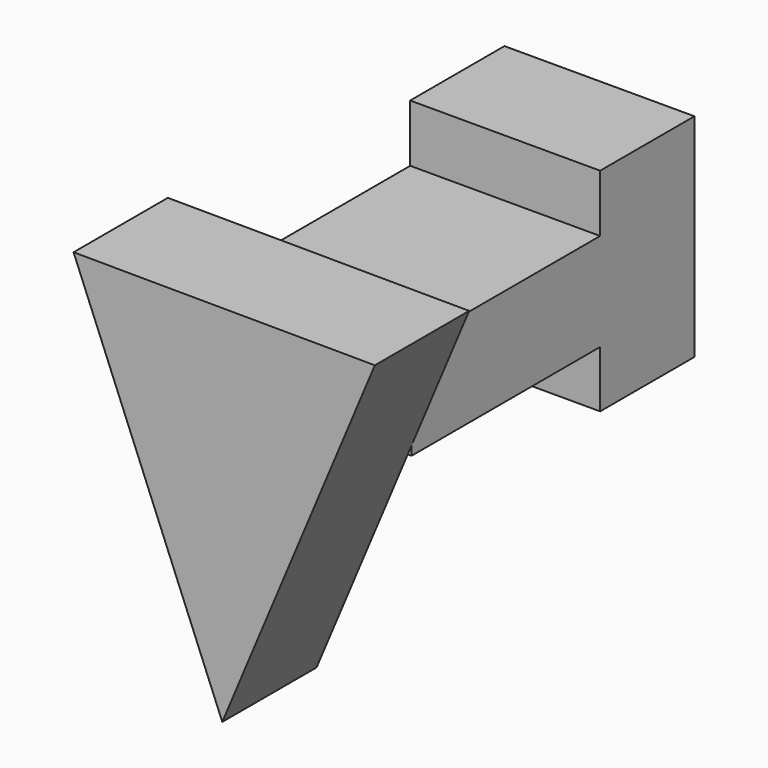
from build123d import *

# Parameters (mm, degrees)
F0_W     = 40.943392
F0_H     = 21.0566
F1_DEPTH = 50.8
F3_DEPTH = 25.4
F4_W     = 40.943392
F4_H     = 45.667097
F5_DEPTH = 25.4


with BuildPart() as f1:
    # F0 (on Front) → F1 (new body)
    with BuildSketch(Plane.XZ):
        with Locations((-49.021153, 37.531126)):
            Rectangle(F0_W, F0_H)
    extrude(amount=F1_DEPTH)

    # F2 (on face) → F3 (join)
    with BuildSketch(Plane.XZ.offset(50.8)):
        Polygon((-16.144358, 58.535154), (-81.071265, 58.869848), (-49.021153, -19.816248), align=None)
    extrude(amount=F3_DEPTH)

    # F4 (on face) → F5 (join)
    with BuildSketch(Plane(origin=(0, 0, 0), x_dir=(-1, 0, 0), z_dir=(0, 1, 0))):
        with Locations((49.021153, 37.612088)):
            Rectangle(F4_W, F4_H)
    extrude(amount=F5_DEPTH)


solid = f1.part
